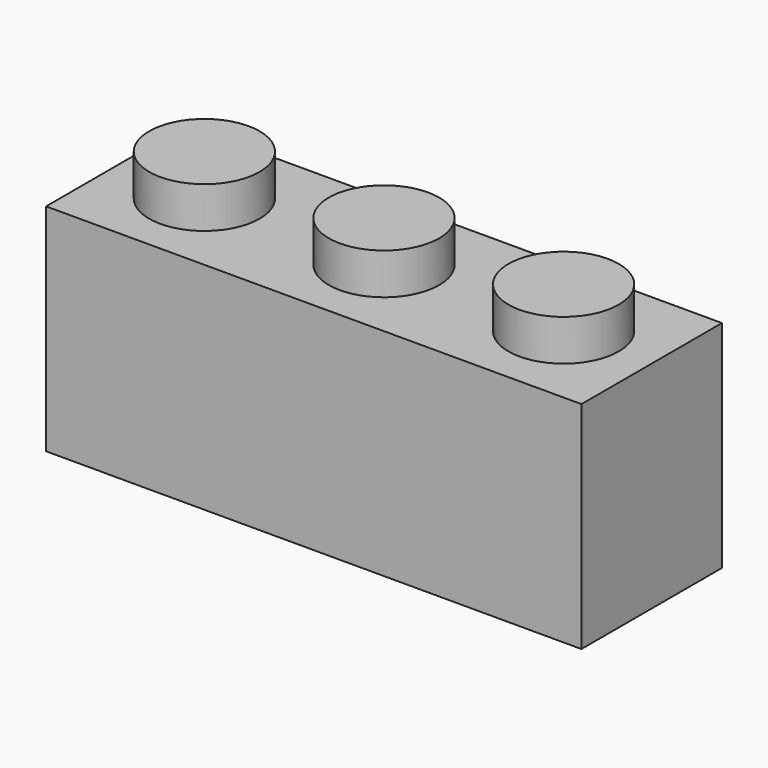
from build123d import *

# Parameters (mm, degrees)
F0_W     = 23.7744
F0_H     = 7.7978
F1_DEPTH = 4.7879
F2_R     = 2.4511
F3_DEPTH = 1.8288
F4_W     = 20.7264
F4_H     = 4.7498
F6_DEPTH = 8.0772
F5_R     = 1.4859
F5_R_2   = 1.5621
F7_DEPTH = 8.0772


with BuildPart() as f1:
    # F0 (on Top) → F1 (new body, symmetric)
    with BuildSketch(Plane.XY):
        Rectangle(F0_W, F0_H)
    extrude(amount=F1_DEPTH, both=True)

    # F2 (on face) → F3 (join)
    with BuildSketch(Plane.XY.offset(4.7879)):
        with Locations((-7.9756, 0)):
            Circle(F2_R)
        Circle(F2_R)
        with Locations((7.9756, 0)):
            Circle(F2_R)
    extrude(amount=F3_DEPTH)

    # F4 (on face) → F6 (cut)
    with BuildSketch(Plane(origin=(0, 0, -4.7879), x_dir=(1, 0, 0), z_dir=(0, 0, -1))):
        Rectangle(F4_W, F4_H)
    extrude(amount=-F6_DEPTH, mode=Mode.SUBTRACT)

    # F5 (on face) → F7 (join)
    with BuildSketch(Plane(origin=(0, 0, -4.7879), x_dir=(1, 0, 0), z_dir=(0, 0, -1))):
        with Locations((-4.0005, 0)):
            Circle(F5_R)
        with Locations((3.9243, 0)):
            Circle(F5_R_2)
    extrude(amount=-F7_DEPTH)


solid = f1.part
